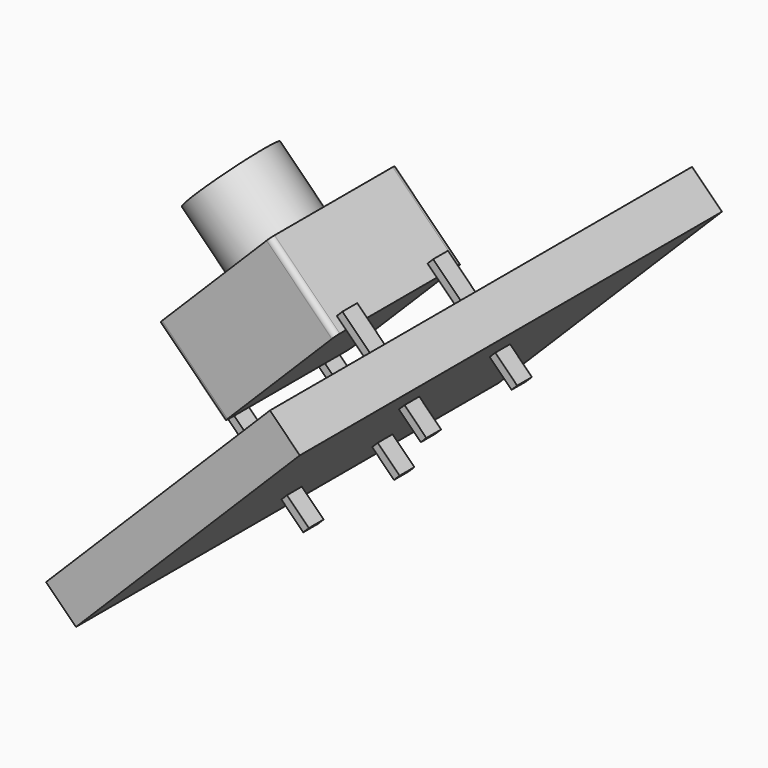
from build123d import *

# Parameters (mm, degrees)
BOX026_W              = 12
BOX026_H              = 20
BOX026_DEPTH          = 1.6
BOX026_PITCH_ANGLE    = -45
BOX024_W              = 0.3
BOX024_H              = 0.7
BOX024_DEPTH          = 4.5
BOX021_W              = 0.3
BOX021_H              = 0.7
BOX021_DEPTH          = 4.5
BOX025_W              = 0.3
BOX025_H              = 0.7
BOX025_DEPTH          = 4.5
BOX022_W              = 0.3
BOX022_H              = 0.7
BOX022_DEPTH          = 4.5
CYLINDER042_R         = 1.75
CYLINDER042_DEPTH     = 6
BOX023_W              = 6
BOX023_H              = 6
BOX023_DEPTH          = 3.5
FILLET004_R           = 0.2
FUSION004_PITCH_ANGLE = -45


with BuildPart() as obj1:
    # Box026 → Box026 (new body)
    with BuildSketch(Plane.XY):
        with Locations((6, 10)):
            Rectangle(BOX026_W, BOX026_H)
    extrude(amount=BOX026_DEPTH)


with BuildPart() as obj1_1:
    # Box026 pitch: moved
    add(obj1.part.rotate(Axis((0, 0, 0), (0, 1, 0)), BOX026_PITCH_ANGLE))


with BuildPart() as obj1_2:
    # Box026 placement: moved
    add(obj1_1.part.moved(Location((-43, -10, 4))))


with BuildPart() as cubo021:
    # Box024 → Box024 (new body)
    with BuildSketch(Plane(origin=(6, 0.5, -4), x_dir=(1, 0, 0), z_dir=(0, 0, 1))):
        with Locations((0.15, 0.35)):
            Rectangle(BOX024_W, BOX024_H)
    extrude(amount=BOX024_DEPTH)


with BuildPart() as cubo018:
    # Box021 → Box021 (new body)
    with BuildSketch(Plane(origin=(6, 4.8, -4), x_dir=(1, 0, 0), z_dir=(0, 0, 1))):
        with Locations((0.15, 0.35)):
            Rectangle(BOX021_W, BOX021_H)
    extrude(amount=BOX021_DEPTH)


with BuildPart() as cubo022:
    # Box025 → Box025 (new body)
    with BuildSketch(Plane(origin=(-0.3, 4.8, -4), x_dir=(1, 0, 0), z_dir=(0, 0, 1))):
        with Locations((0.15, 0.35)):
            Rectangle(BOX025_W, BOX025_H)
    extrude(amount=BOX025_DEPTH)


with BuildPart() as cubo019:
    # Box022 → Box022 (new body)
    with BuildSketch(Plane(origin=(-0.3, 0.5, -4), x_dir=(1, 0, 0), z_dir=(0, 0, 1))):
        with Locations((0.15, 0.35)):
            Rectangle(BOX022_W, BOX022_H)
    extrude(amount=BOX022_DEPTH)


with BuildPart() as cilindro018:
    # Cylinder042 → Cylinder042 (new body)
    with BuildSketch(Plane(origin=(3, 3, 0), x_dir=(1, 0, 0), z_dir=(0, 0, 1))):
        Circle(CYLINDER042_R)
    extrude(amount=CYLINDER042_DEPTH)


with BuildPart() as obj2:
    # Box023 → Box023 (new body)
    with BuildSketch(Plane.XY):
        with Locations((3, 3)):
            Rectangle(BOX023_W, BOX023_H)
    extrude(amount=BOX023_DEPTH)

    # Fillet004
    fillet004_edges = [obj2.edges().sort_by_distance(p)[0] for p in [
        (0, 0, 1.75),
        (0, 6, 1.75),
        (6, 0, 1.75),
        (6, 6, 1.75),
    ]]
    fillet(fillet004_edges, radius=FILLET004_R)

    # Fusion004: union Cubo021, Cubo018, Cubo022, Cubo019, Cilindro018
    add(cubo021.part)
    add(cubo018.part)
    add(cubo022.part)
    add(cubo019.part)
    add(cilindro018.part)


with BuildPart() as obj2_1:
    # Fusion004 pitch: moved
    add(obj2.part.rotate(Axis((0, 0, 0), (0, 1, 0)), FUSION004_PITCH_ANGLE))


with BuildPart() as obj2_2:
    # Fusion004 placement: moved
    add(obj2_1.part.moved(Location((-43, -3, 8))))

    # Fusion005: union obj1
    add(obj1_2.part)


with BuildPart() as obj2_3:
    # Fusion005 placement: moved
    add(obj2_2.part.moved(Location((1.5, 0, 0))))


solid = obj2_3.part
